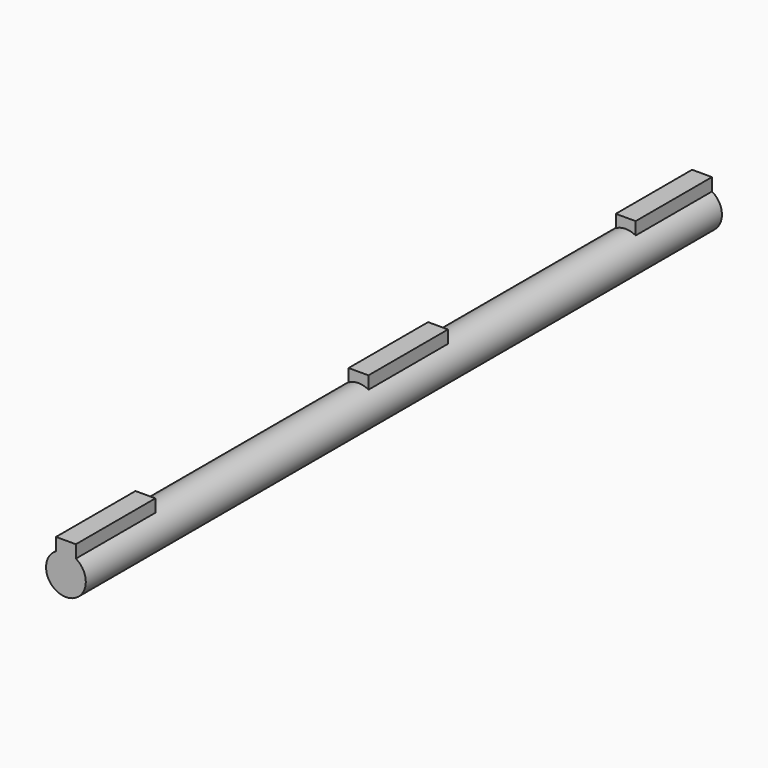
from build123d import *

# Parameters (mm, degrees)
F0_R     = 3.175
F1_DEPTH = 127
F2_W     = 1.5875
F2_H     = 3.175
F3_DEPTH = 15.875
F5_W     = 3.175
F5_H     = 3.175
F6_DEPTH = 15.875
F8_W     = 3.175
F8_H     = 3.1142037669
F9_DEPTH = 15.24


with BuildPart() as f1:
    # F0 (on Front) → F1 (new body)
    with BuildSketch(Plane.XZ):
        Circle(F0_R)
    extrude(amount=F1_DEPTH)

    # F2 (on face) → F3 (join)
    with BuildSketch(Plane.XZ.offset(127)):
        with Locations((-0.79375, 3.1877)):
            Rectangle(F2_W, F2_H)
        with Locations((0.79375, 3.1877)):
            Rectangle(F2_W, F2_H)
    extrude(amount=-F3_DEPTH)

    # F5 (on offset) → F6 (join)
    with BuildSketch(Plane.XZ.offset(68.58)):
        with Locations((0, 3.1877)):
            Rectangle(F5_W, F5_H)
    extrude(amount=-F6_DEPTH)

    # F8 (on offset) → F9 (join)
    with BuildSketch(Plane.XZ.offset(15.24)):
        with Locations((0, 3.2180981166)):
            Rectangle(F8_W, F8_H)
    extrude(amount=-F9_DEPTH)


solid = f1.part
